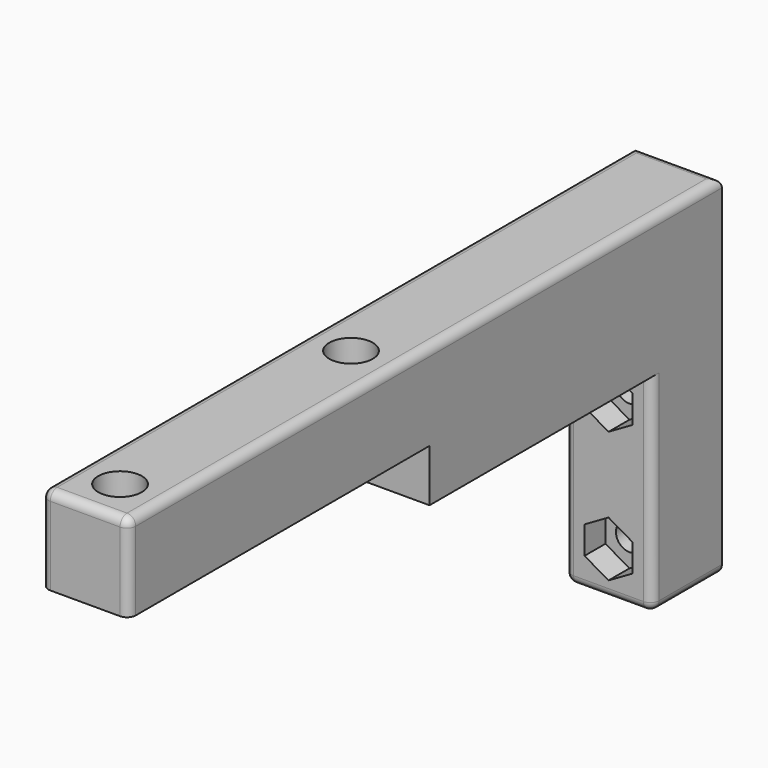
from build123d import *

# Parameters (mm, degrees)
F0_W          = 10
F0_H          = 43.1
F0_R          = 1.55
F1_DEPTH      = 10
F0_H_2        = 31.9
F2_DEPTH      = 10
F2_DEPTH_BACK = 6
F0_H_3        = 10
F3_DEPTH      = 30
F3_DEPTH_BACK = 10
F4_R          = 1.55
F5_DEPTH      = 15
F6_R          = 1
F7_R          = 1.55
F8_DEPTH      = 3
F9_R          = 2.5
F10_DEPTH     = 3


with BuildPart() as f1:
    # F0 (on Top) → F1 (new body)
    with BuildSketch(Plane.XY):
        with Locations((-5, 21.55)):
            Rectangle(F0_W, F0_H)
        with Locations((-5, 5)):
            Circle(F0_R, mode=Mode.SUBTRACT)
        with Locations((-5, 38.1)):
            Circle(F0_R, mode=Mode.SUBTRACT)
    extrude(amount=F1_DEPTH)

    # F0 (on Top) → F2 (join, two sides)
    with BuildSketch(Plane.XY) as f2_sk:
        with Locations((-5, 59.05)):
            Rectangle(F0_W, F0_H_2)
    extrude(amount=F2_DEPTH)
    extrude(f2_sk.sketch, amount=-F2_DEPTH_BACK)

    # F0 (on Top) → F3 (join, two sides)
    with BuildSketch(Plane.XY) as f3_sk:
        with Locations((-5, 80)):
            Rectangle(F0_W, F0_H_3)
    extrude(amount=-F3_DEPTH)
    extrude(f3_sk.sketch, amount=F3_DEPTH_BACK)

    # F4 (on face) → F5 (cut)
    with BuildSketch(Plane(origin=(0, 85, 0), x_dir=(-1, 0, 0), z_dir=(0, 1, 0))):
        with Locations((5, -25)):
            Circle(F4_R)
        with Locations((5, -10)):
            Circle(F4_R)
    extrude(amount=-F5_DEPTH, mode=Mode.SUBTRACT)

    # F6
    f6_edges = [f1.edges().sort_by_distance(p)[0] for p in [
        (-10, 42.5, 10),
        (0, 42.5, 10),
        (-5, 85, 10),
        (-10, 75, -18),
        (-5, 75, -30),
        (0, 80, -30),
        (-10, 80, -30),
        (-10, 0, 5),
        (0, 0, 5),
        (-5, 0, 10),
        (0, 75, -18),
    ]]
    fillet(f6_edges, radius=F6_R)

    # F7 (on face) → F8 (cut)
    with BuildSketch(Plane.XZ.offset(-75)):
        Polygon((-2.25, -11.5877132403), (-2.25, -8.4122867597), (-5, -6.8245735195), (-7.75, -8.4122867597), (-7.75, -11.5877132403), (-5, -13.1754264805), align=None)
        with Locations((-5, -10)):
            Circle(F7_R, mode=Mode.SUBTRACT)
        Polygon((-2.25, -26.5877132403), (-2.25, -23.4122867597), (-5, -21.8245735195), (-7.75, -23.4122867597), (-7.75, -26.5877132403), (-5, -28.1754264805), align=None)
        with Locations((-5, -25)):
            Circle(F7_R, mode=Mode.SUBTRACT)
    extrude(amount=-F8_DEPTH, mode=Mode.SUBTRACT)

    # F9 (on face) → F10 (cut)
    with BuildSketch(Plane.XY.offset(10)):
        with Locations((-5, 38.1)):
            Circle(F9_R)
        with Locations((-5, 5)):
            Circle(F9_R)
    extrude(amount=-F10_DEPTH, mode=Mode.SUBTRACT)


solid = f1.part
